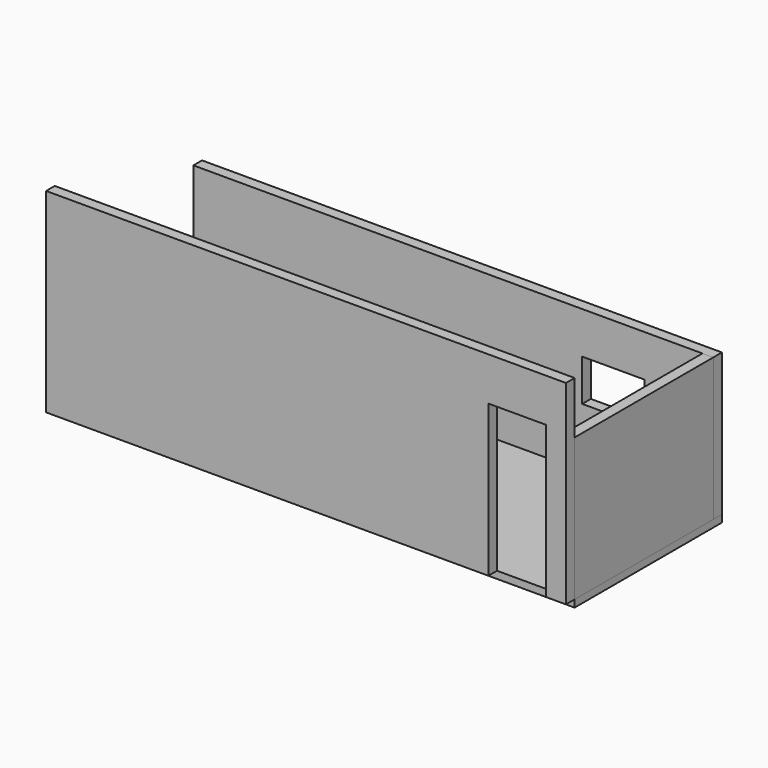
from build123d import *

# Parameters (mm, degrees)
F0_W      = 7315.2
F0_H      = 2006.6
F1_DEPTH  = 152.4
F2_W      = 876.598181
F2_H      = 585.937315
F3_DEPTH  = 152.401
F4_W      = 152.4
F4_H      = 2006.6
F5_DEPTH  = 2438.4
F6_W      = 7315.2
F6_H      = 2590.8
F7_DEPTH  = 101.6
F8_W      = 7315.2
F8_H      = 2743.2
F9_DEPTH  = 152.4
F10_W     = 812.8
F10_H     = 2133.6
F11_DEPTH = 152.401


with BuildPart() as f1:
    # F0 (on Front) → F1 (new body)
    with BuildSketch(Plane.XZ):
        with Locations((-3657.6, 1003.3)):
            Rectangle(F0_W, F0_H)
    extrude(amount=F1_DEPTH)

    # F2 (on face) → F3 (cut, through all)
    with BuildSketch(Plane.XZ.offset(152.4)):
        with Locations((-1405.953557, 1124.056657)):
            Rectangle(F2_W, F2_H)
    extrude(amount=-F3_DEPTH, mode=Mode.SUBTRACT)


with BuildPart() as f5:
    # F4 (on face) → F5 (new body)
    with BuildSketch(Plane.XZ.offset(152.4)):
        with Locations((-76.2, 1003.3)):
            Rectangle(F4_W, F4_H)
    extrude(amount=F5_DEPTH)


with BuildPart() as f7:
    # F6 (on face) → F7 (new body)
    with BuildSketch(Plane(origin=(0, 0, 0), x_dir=(1, 0, 0), z_dir=(0, 0, -1))):
        with Locations((-3657.6, 1295.4)):
            Rectangle(F6_W, F6_H)
    extrude(amount=F7_DEPTH)


with BuildPart() as f9:
    # F8 (on face) → F9 (new body)
    with BuildSketch(Plane.XZ.offset(2590.8)):
        with Locations((-3657.6, 1371.6)):
            Rectangle(F8_W, F8_H)
    extrude(amount=F9_DEPTH)

    # F10 (on face) → F11 (cut, through all)
    with BuildSketch(Plane(origin=(0, -2590.8, 0), x_dir=(-1, 0, 0), z_dir=(0, 1, 0))):
        with Locations((685.8, 1066.8)):
            Rectangle(F10_W, F10_H)
    extrude(amount=-F11_DEPTH, mode=Mode.SUBTRACT)


solid = Compound([f1.part, f5.part, f7.part, f9.part])
